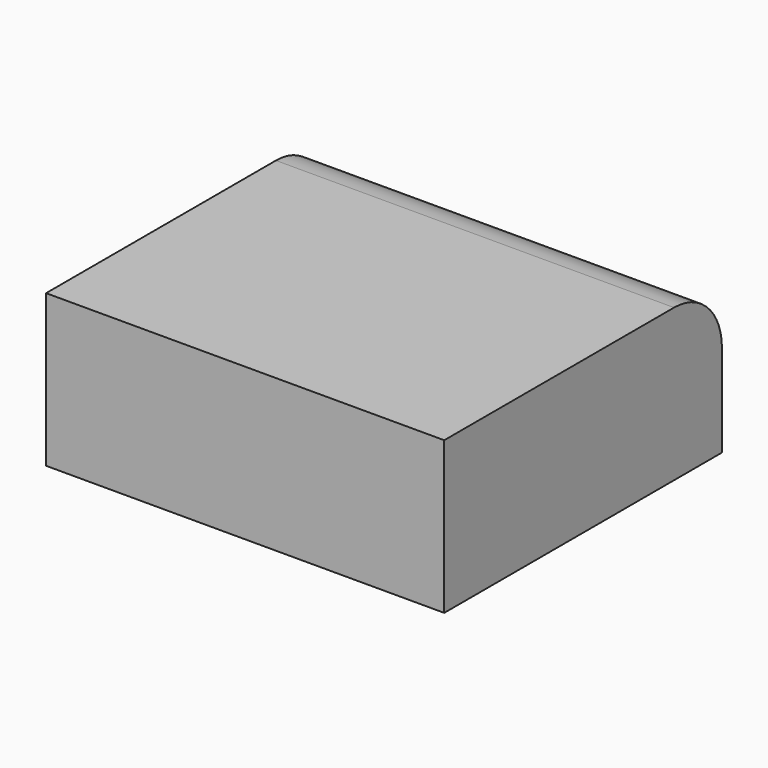
from build123d import *

# Parameters (mm, degrees)
F0_W     = 66.532835
F0_H     = 58.002986
F1_DEPTH = 25.4
F2_R     = 10


with BuildPart() as f1:
    # F0 (on Top) → F1 (new body)
    with BuildSketch(Plane.XY):
        with Locations((-3.070745, 4.776716)):
            Rectangle(F0_W, F0_H)
        with Locations((-3.070745, 4.776716)):
            Rectangle(F0_W, F0_H)
    extrude(amount=F1_DEPTH)

    # F2
    f2_edges = [f1.edges().sort_by_distance(p)[0] for p in [
        (-3.070746, 33.778209, 25.4),
    ]]
    fillet(f2_edges, radius=F2_R)


solid = f1.part
